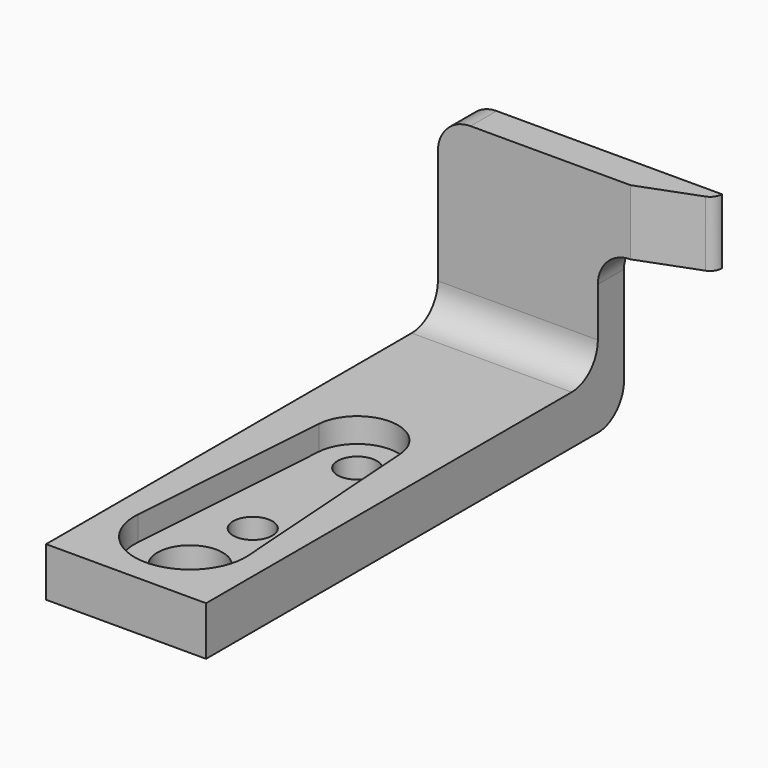
from build123d import *

# Parameters (mm, degrees)
F0_W      = 9.8
F0_H      = 32
F0_R      = 2
F0_R_2    = 1.2
F1_DEPTH  = 3
F3_DEPTH  = 1.5
F4_W      = 9.8
F4_H      = 2
F5_DEPTH  = 11
F6_W      = 2
F6_H      = 4
F7_DEPTH  = 6
F8_R      = 2
F10_DEPTH = 4


with BuildPart() as f1:
    # F0 (on Top) → F1 (new body)
    with BuildSketch(Plane.XY):
        with Locations((0, 11.1)):
            Rectangle(F0_W, F0_H)
        Circle(F0_R, mode=Mode.SUBTRACT)
        with Locations((0, 4.8)):
            Circle(F0_R_2, mode=Mode.SUBTRACT)
        with Locations((0, 12.8)):
            Circle(F0_R_2, mode=Mode.SUBTRACT)
    extrude(amount=F1_DEPTH)

    # F2 (on face) → F3 (cut)
    with BuildSketch(Plane.XY.offset(3)):
        with BuildLine():
            Line((-2.493813, 12.975781), (-3.391585, 0.239062))
            ThreePointArc((-3.391585, 0.239062), (0, -3.4), (3.391585, 0.239062))
            Line((3.391585, 0.239062), (2.493813, 12.975781))
            ThreePointArc((2.493813, 12.975781), (0, 15.3), (-2.493813, 12.975781))
        make_face()
    extrude(amount=-F3_DEPTH, mode=Mode.SUBTRACT)

    # F4 (on face) → F5 (join)
    with BuildSketch(Plane.XY.offset(3)):
        with Locations((0, 26.1)):
            Rectangle(F4_W, F4_H)
    extrude(amount=F5_DEPTH)

    # F6 (on face) → F7 (join)
    with BuildSketch(Plane.YZ.offset(4.9)):
        with Locations((26.1, 12)):
            Rectangle(F6_W, F6_H)
    extrude(amount=F7_DEPTH)

    # F8
    f8_edges = [f1.edges().sort_by_distance(p)[0] for p in [
        (4.9, 26.1, 10),
        (-4.9, 26.1, 14),
        (0, 25.1, 3),
        (0, 27.1, 0),
    ]]
    fillet(f8_edges, radius=F8_R)

    # F9 (on face) → F10 (cut, through all)
    with BuildSketch(Plane(origin=(0, 0, 10), x_dir=(1, 0, 0), z_dir=(0, 0, -1))):
        with BuildLine():
            Line((10.9, -25.1), (6.9, -25.1))
            Line((6.9, -25.1), (10.431835, -26.424438))
            ThreePointArc((10.431835, -26.424438), (10.771519, -26.689037), (10.9, -27.1))
            Line((10.9, -27.1), (10.9, -26.6))
            Line((10.9, -26.6), (10.9, -25.1))
        make_face()
    extrude(amount=-F10_DEPTH, mode=Mode.SUBTRACT)


solid = f1.part
